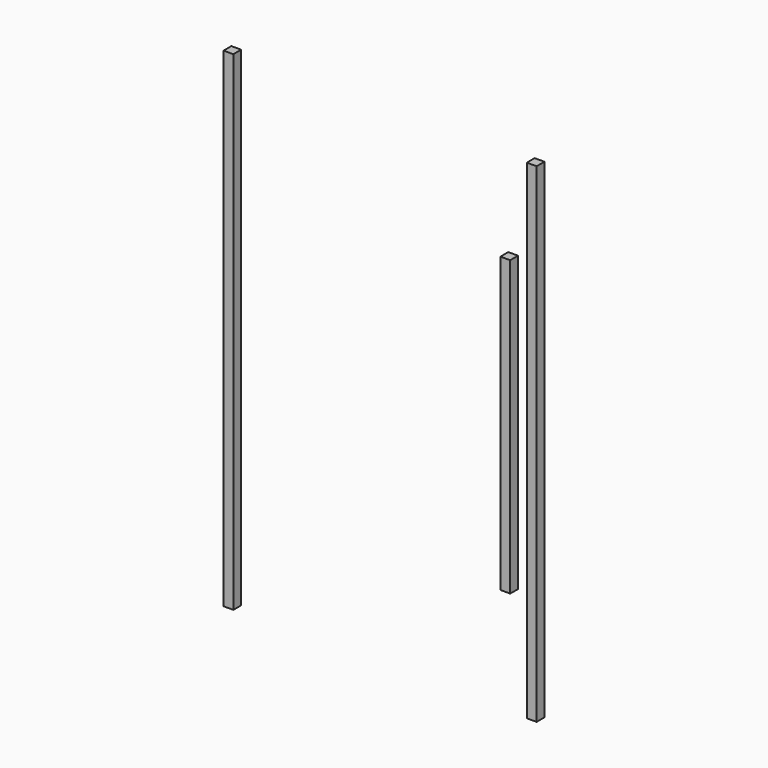
from build123d import *

# Parameters (mm, degrees)
F0_W     = 1
F0_H     = 1
F1_DEPTH = 50
F2_DEPTH = 30


with BuildPart() as f1:
    # F0 (on Top) → F1 (new body)
    with BuildSketch(Plane.XY):
        with Locations((15.5, -0.5)):
            Rectangle(F0_W, F0_H)
        with Locations((-15.5, -0.5)):
            Rectangle(F0_W, F0_H)
    extrude(amount=F1_DEPTH)


with BuildPart() as f2:
    # F0 (on Top) → F2 (new body)
    with BuildSketch(Plane.XY):
        with Locations((0, 15.5)):
            Rectangle(F0_W, F0_H)
    extrude(amount=F2_DEPTH)


solid = Compound([f1.part, f2.part])
